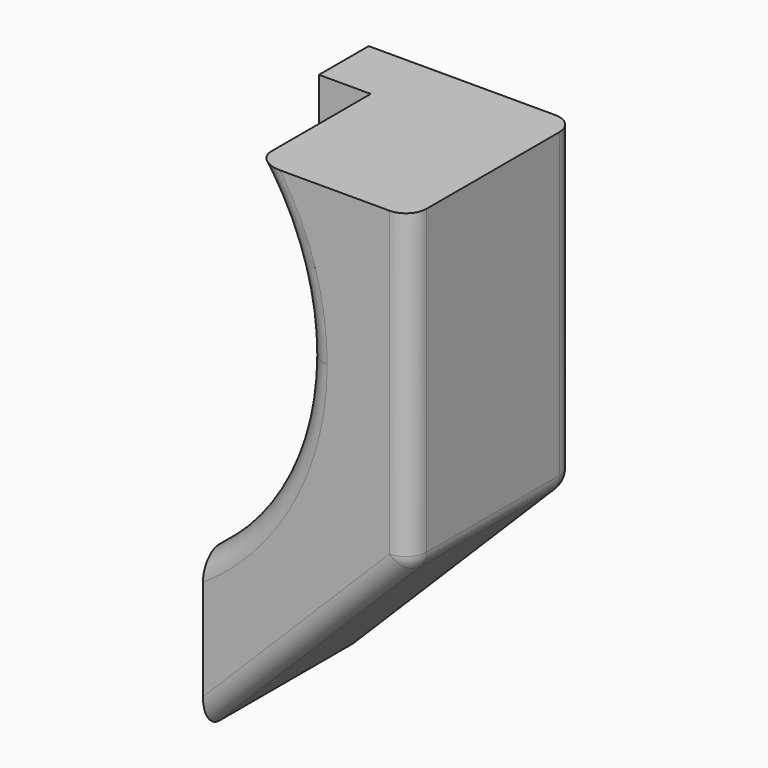
from build123d import *

# Parameters (mm, degrees)
F1_DEPTH = 1
F3_DEPTH = 0.7
F4_R     = 0.1


with BuildPart() as f1:
    # F0 (on Front) → F1 (new body)
    with BuildSketch(Plane.XZ):
        with BuildLine():
            Line((1, 0.75), (0.75, 0.75))
            Line((0.75, 0.75), (0.75, -1))
            ThreePointArc((0.75, -1), (1.237437, -0.176777), (1, 0.75))
        make_face()
        with BuildLine():
            ThreePointArc((1, 0.75), (1.237437, -0.176777), (0.75, -1))
            Line((0.75, -1), (0.75, -1.75))
            Line((0.75, -1.75), (1.75, -0.75))
            Line((1.75, -0.75), (1.75, 0.75))
            Line((1.75, 0.75), (1, 0.75))
        make_face()
    extrude(amount=F1_DEPTH)

    # F2 (on face) → F3 (cut)
    with BuildSketch(Plane.XZ.offset(1)):
        with BuildLine():
            ThreePointArc((0.75, -1), (1.118034, -0.559017), (1.25, 0))
            ThreePointArc((1.25, 0), (1.185854, 0.395285), (1, 0.75))
            Line((1, 0.75), (0.75, 0.75))
            Line((0.75, 0.75), (0.75, -1))
        make_face()
        with BuildLine():
            Line((0.75, 0.75), (1, 0.75))
            ThreePointArc((1, 0.75), (-1.237437, 0.176777), (0.75, -1))
            Line((0.75, -1), (0.75, 0.75))
        make_face()
    extrude(amount=-F3_DEPTH, mode=Mode.SUBTRACT)

    # F4
    f4_edges = [f1.edges().sort_by_distance(p)[0] for p in [
        (1.75, -1, 0),
        (1.237437, -1, -0.176777),
        (1.75, 0, 0),
        (1.75, -0.5, -0.75),
        (1.25, -1, -1.25),
        (1.25, 0, -1.25),
    ]]
    fillet(f4_edges, radius=F4_R)


solid = f1.part
